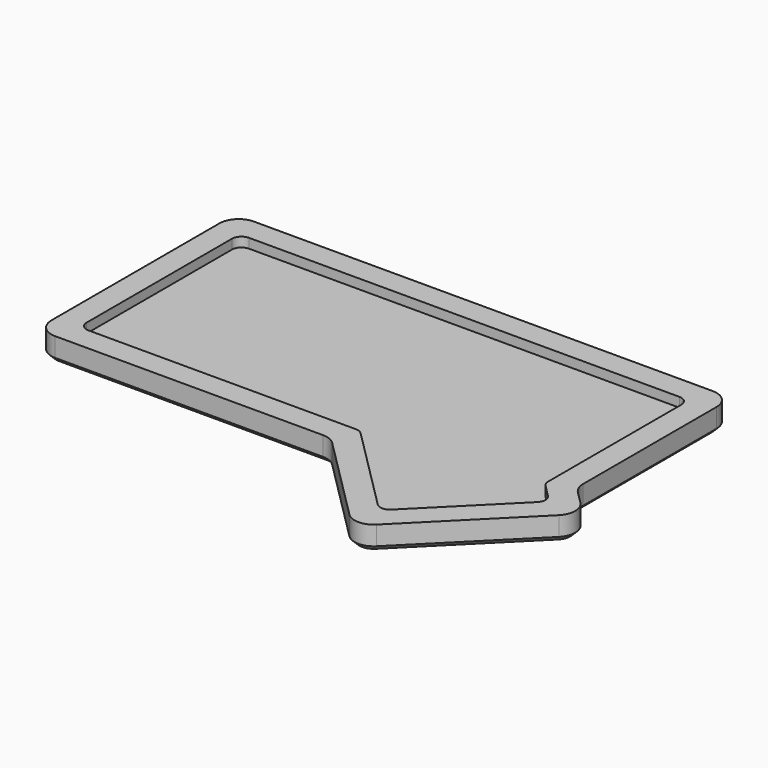
from build123d import *

# Parameters (mm, degrees)
PAD002_DEPTH = 2
PAD003_DEPTH = 3
CHAMFER_SIZE = 1


with BuildPart() as part:
    # Sketch002 → Pad002 (new body)
    with BuildSketch(Plane.XY):
        with BuildLine():
            Line((17.088408, 39.253582), (-79.015923, 39.253582))
            ThreePointArc((-79.015923, 39.253582), (-81.84435, 38.082009), (-83.015923, 35.253582))
            Line((-83.015923, 35.253582), (-83.015923, -8.745983))
            ThreePointArc((-83.015923, -8.745983), (-81.84435, -11.57441), (-79.015923, -12.745983))
            Line((-79.015923, -12.745983), (-22.915418, -12.745983))
            ThreePointArc((-20.086991, -13.917556), (-21.384684, -13.050465), (-22.915418, -12.745983))
            Line((-20.086991, -13.917556), (-1.9847, -32.019847))
            ThreePointArc((-1.9847, -32.019847), (0.843727, -33.191419), (3.672154, -32.019847))
            Line((3.672154, -32.019847), (24.885358, -10.806643))
            ThreePointArc((24.885358, -10.806643), (26.05693, -7.978216), (24.885358, -5.149789))
            Line((24.885358, -5.149789), (22.259981, -2.524412))
            ThreePointArc((21.088408, 0.304015), (21.39289, -1.226719), (22.259981, -2.524412))
            Line((21.088408, 0.304015), (21.088408, 35.253582))
            ThreePointArc((21.088408, 35.253582), (19.916835, 38.082009), (17.088408, 39.253582))
        make_face()
        with BuildLine():
            Line((14.088408, 34.253582), (-76.015923, 34.253582))
            ThreePointArc((-76.015923, 34.253582), (-77.430137, 33.667796), (-78.015923, 32.253582))
            Line((-78.015923, 32.253582), (-78.015923, -5.745983))
            ThreePointArc((-78.015923, -5.745983), (-77.430137, -7.160197), (-76.015923, -7.745983))
            Line((-76.015923, -7.745983), (-20.015923, -7.745983))
            ThreePointArc((-18.601709, -8.331769), (-19.250556, -7.898224), (-20.015923, -7.745983))
            Line((-18.601709, -8.331769), (-0.570487, -26.362992))
            ThreePointArc((-0.570487, -26.362992), (0.843727, -26.948779), (2.257941, -26.362992))
            Line((2.257941, -26.362992), (19.228503, -9.39243))
            ThreePointArc((19.228503, -9.39243), (19.81429, -7.978216), (19.228503, -6.564002))
            Line((19.228503, -6.564002), (16.674194, -4.009694))
            ThreePointArc((16.088408, -2.59548), (16.240649, -3.360847), (16.674194, -4.009694))
            Line((16.088408, -2.59548), (16.088408, 32.253582))
            ThreePointArc((16.088408, 32.253582), (15.502622, 33.667796), (14.088408, 34.253582))
        make_face(mode=Mode.SUBTRACT)
    extrude(amount=-PAD002_DEPTH)

    # Sketch003 (on Face30 of Pad002) → Pad003 (join)
    with BuildSketch(Plane(origin=(0, 0, -2), x_dir=(1, 0, 0), z_dir=(0, 0, -1))):
        with BuildLine():
            Line((-79.015923, 12.745983), (-22.915418, 12.745983))
            ThreePointArc((-22.915418, 12.745983), (-21.384684, 13.050465), (-20.086991, 13.917556))
            Line((-20.086991, 13.917556), (-1.9847, 32.019847))
            ThreePointArc((3.672154, 32.019847), (0.843727, 33.191419), (-1.9847, 32.019847))
            Line((3.672154, 32.019847), (24.885358, 10.806643))
            ThreePointArc((24.885358, 5.149789), (26.05693, 7.978216), (24.885358, 10.806643))
            Line((24.885358, 5.149789), (22.259981, 2.524412))
            ThreePointArc((22.259981, 2.524412), (21.39289, 1.226719), (21.088408, -0.304015))
            Line((21.088408, -0.304015), (21.088408, -35.253582))
            ThreePointArc((17.088408, -39.253582), (19.916835, -38.082009), (21.088408, -35.253582))
            Line((17.088408, -39.253582), (-79.015923, -39.253582))
            ThreePointArc((-83.015923, -35.253582), (-81.84435, -38.082009), (-79.015923, -39.253582))
            Line((-83.015923, -35.253582), (-83.015923, 8.745983))
            ThreePointArc((-79.015923, 12.745983), (-81.84435, 11.57441), (-83.015923, 8.745983))
        make_face()
    extrude(amount=PAD003_DEPTH)

    # Chamfer
    chamfer_edges = [part.edges().sort_by_distance(p)[0] for p in [
        (-83.015923, 13.2538, -5),
        (-81.84435, -11.57441, -5),
        (-50.96567, -12.745983, -5),
        (-21.384684, -13.050465, -5),
        (-11.035845, -22.968701, -5),
        (0.843727, -33.191419, -5),
        (14.278756, -21.413245, -5),
        (26.05693, -7.978216, -5),
        (23.572669, -3.837101, -5),
        (21.39289, -1.226719, -5),
        (21.088408, 17.778798, -5),
        (19.916835, 38.082009, -5),
        (-30.963758, 39.253582, -5),
        (-81.84435, 38.082009, -5),
    ]]
    chamfer(chamfer_edges, length=CHAMFER_SIZE)


with BuildPart() as part_1:
    # Body001 placement: moved
    add(part.part.moved(Location((0, 0, -2.6))))


solid = part_1.part
